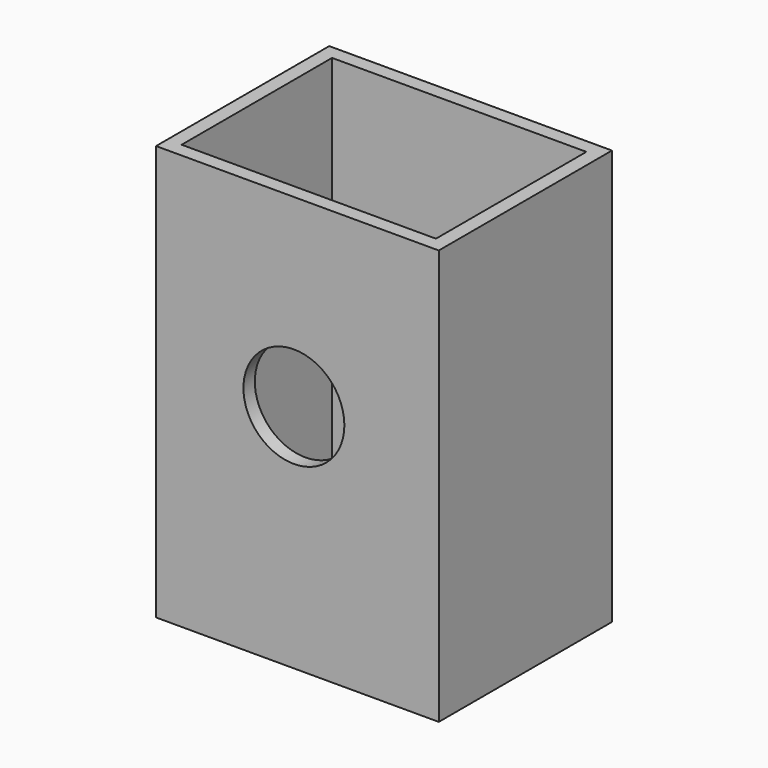
from build123d import *

# Parameters (mm, degrees)
F0_W     = 50.5277775228
F0_H     = 38.6841930449
F1_DEPTH = 74.168
F2_T     = -2.54
F3_R     = 9.0198311592
F4_DEPTH = 71.882


with BuildPart() as f1:
    # F0 (on Top) → F1 (new body)
    with BuildSketch(Plane.XY):
        with Locations((25.2638887614, -19.3420965225)):
            Rectangle(F0_W, F0_H)
    extrude(amount=F1_DEPTH)

    # F2
    f2_openings = [f1.faces().sort_by_distance(p)[0] for p in [
        (25.263889, -19.342097, 74.168),
    ]]
    offset(amount=F2_T, openings=f2_openings)

    # F3 (on face) → F4 (cut)
    with BuildSketch(Plane.XZ.offset(38.6841930449)):
        with Locations((24.6360246092, 41.1775447428)):
            Circle(F3_R)
    extrude(amount=-F4_DEPTH, mode=Mode.SUBTRACT)


solid = f1.part
